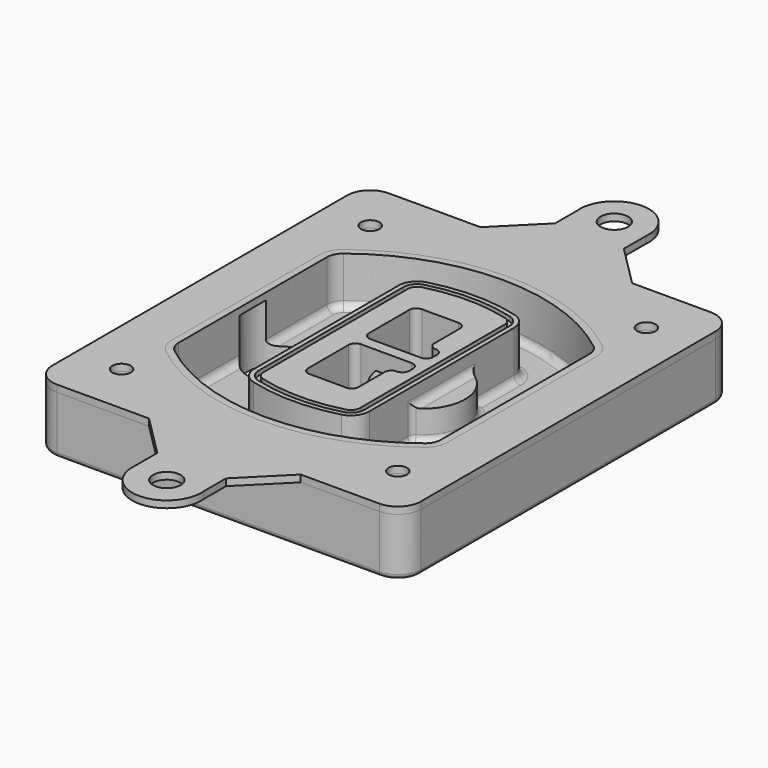
from build123d import *

# Parameters (mm, degrees)
F0_R      = 4
F1_DEPTH  = 25
F2_DEPTH  = 3
F3_DEPTH  = 18
F5_DEPTH  = 21
F6_DEPTH  = 2
F8_DEPTH  = 20
F9_DEPTH  = 16
F10_DEPTH = 25
F7_R      = 6
F7_R_2    = 4
F11_DEPTH = 6
F13_DEPTH = 9
F14_R     = 3
F15_R     = 2
F16_R     = 6
F16_R_2   = 4
F17_DEPTH = 3


with BuildPart() as f1:
    # F0 (on Top) → F1 (new body)
    with BuildSketch(Plane.XY):
        with BuildLine():
            ThreePointArc((-80, -80), (-77.0710678119, -87.0710678119), (-70, -90))
            Line((-70, -90), (70, -90))
            ThreePointArc((70, -90), (77.0710678119, -87.0710678119), (80, -80))
            Line((80, -80), (80, 80))
            ThreePointArc((80, 80), (77.0710678119, 87.0710678119), (70, 90))
            Line((70, 90), (-70, 90))
            ThreePointArc((-70, 90), (-77.0710678119, 87.0710678119), (-80, 80))
            Line((-80, 80), (-80, -80))
        make_face()
        with Locations((-60, -67.5)):
            Circle(F0_R, mode=Mode.SUBTRACT)
        with Locations((60, -67.5)):
            Circle(F0_R, mode=Mode.SUBTRACT)
        with Locations((-60, 67.5)):
            Circle(F0_R, mode=Mode.SUBTRACT)
        with BuildLine():
            ThreePointArc((-64, 40.2934422872), (-62.5820384798, 46.4328484224), (-58.6153846154, 51.3286200352))
            ThreePointArc((-58.6153846154, 51.3286200352), (0, 71.5), (58.6153846154, 51.3286200352))
            ThreePointArc((58.6153846154, 51.3286200352), (62.5820384798, 46.4328484224), (64, 40.2934422872))
            Line((64, 40.2934422872), (64, -40.2934422872))
            ThreePointArc((64, -40.2934422872), (62.5820384798, -46.4328484224), (58.6153846154, -51.3286200352))
            ThreePointArc((58.6153846154, -51.3286200352), (0, -71.5), (-58.6153846154, -51.3286200352))
            ThreePointArc((-58.6153846154, -51.3286200352), (-62.5820384798, -46.4328484224), (-64, -40.2934422872))
            Line((-64, -40.2934422872), (-64, 40.2934422872))
        make_face(mode=Mode.SUBTRACT)
        with Locations((60, 67.5)):
            Circle(F0_R, mode=Mode.SUBTRACT)
        with BuildLine():
            ThreePointArc((58.6153846154, 51.3286200352), (0, 71.5), (-58.6153846154, 51.3286200352))
            ThreePointArc((-58.6153846154, 51.3286200352), (-62.5820384798, 46.4328484224), (-64, 40.2934422872))
            Line((-64, 40.2934422872), (-64, -40.2934422872))
            ThreePointArc((-64, -40.2934422872), (-62.5820384798, -46.4328484224), (-58.6153846154, -51.3286200352))
            ThreePointArc((-58.6153846154, -51.3286200352), (0, -71.5), (58.6153846154, -51.3286200352))
            ThreePointArc((58.6153846154, -51.3286200352), (62.5820384798, -46.4328484224), (64, -40.2934422872))
            Line((64, -40.2934422872), (64, 40.2934422872))
            ThreePointArc((64, 40.2934422872), (62.5820384798, 46.4328484224), (58.6153846154, 51.3286200352))
        make_face()
        with BuildLine():
            Line((-60, -40.2934422872), (-60, 40.2934422872))
            ThreePointArc((-60, 40.2934422872), (-58.9871703427, 44.6787323838), (-56.1538461538, 48.1757121072))
            ThreePointArc((-56.1538461538, 48.1757121072), (0, 67.5), (56.1538461538, 48.1757121072))
            ThreePointArc((56.1538461538, 48.1757121072), (58.9871703427, 44.6787323838), (60, 40.2934422872))
            Line((60, 40.2934422872), (60, -40.2934422872))
            ThreePointArc((60, -40.2934422872), (58.9871703427, -44.6787323838), (56.1538461538, -48.1757121072))
            ThreePointArc((56.1538461538, -48.1757121072), (0, -67.5), (-56.1538461538, -48.1757121072))
            ThreePointArc((-56.1538461538, -48.1757121072), (-58.9871703427, -44.6787323838), (-60, -40.2934422872))
        make_face(mode=Mode.SUBTRACT)
        with BuildLine():
            ThreePointArc((-56.1538461538, 48.1757121072), (-58.9871703427, 44.6787323838), (-60, 40.2934422872))
            Line((-60, 40.2934422872), (-60, -40.2934422872))
            ThreePointArc((-60, -40.2934422872), (-58.9871703427, -44.6787323838), (-56.1538461538, -48.1757121072))
            ThreePointArc((-56.1538461538, -48.1757121072), (0, -67.5), (56.1538461538, -48.1757121072))
            ThreePointArc((56.1538461538, -48.1757121072), (58.9871703427, -44.6787323838), (60, -40.2934422872))
            Line((60, -40.2934422872), (60, 40.2934422872))
            ThreePointArc((60, 40.2934422872), (58.9871703427, 44.6787323838), (56.1538461538, 48.1757121072))
            ThreePointArc((56.1538461538, 48.1757121072), (0, 67.5), (-56.1538461538, 48.1757121072))
        make_face()
        with BuildLine():
            ThreePointArc((54.3076923077, 45.8110311612), (56.2910192399, 43.3631453548), (57, 40.2934422872))
            Line((57, 40.2934422872), (57, -40.2934422872))
            ThreePointArc((57, -40.2934422872), (56.2910192399, -43.3631453548), (54.3076923077, -45.8110311612))
            ThreePointArc((54.3076923077, -45.8110311612), (0, -64.5), (-54.3076923077, -45.8110311612))
            ThreePointArc((-54.3076923077, -45.8110311612), (-56.2910192399, -43.3631453548), (-57, -40.2934422872))
            Line((-57, -40.2934422872), (-57, 40.2934422872))
            ThreePointArc((-57, 40.2934422872), (-56.2910192399, 43.3631453548), (-54.3076923077, 45.8110311612))
            ThreePointArc((-54.3076923077, 45.8110311612), (0, 64.5), (54.3076923077, 45.8110311612))
        make_face(mode=Mode.SUBTRACT)
        with BuildLine():
            Line((57, -40.2934422872), (57, 40.2934422872))
            ThreePointArc((57, 40.2934422872), (56.2910192399, 43.3631453548), (54.3076923077, 45.8110311612))
            ThreePointArc((54.3076923077, 45.8110311612), (0, 64.5), (-54.3076923077, 45.8110311612))
            ThreePointArc((-54.3076923077, 45.8110311612), (-56.2910192399, 43.3631453548), (-57, 40.2934422872))
            Line((-57, 40.2934422872), (-57, -40.2934422872))
            ThreePointArc((-57, -40.2934422872), (-56.2910192399, -43.3631453548), (-54.3076923077, -45.8110311612))
            ThreePointArc((-54.3076923077, -45.8110311612), (0, -64.5), (54.3076923077, -45.8110311612))
            ThreePointArc((54.3076923077, -45.8110311612), (56.2910192399, -43.3631453548), (57, -40.2934422872))
        make_face()
    extrude(amount=-F1_DEPTH)

    # F0 (on Top) → F2 (join)
    with BuildSketch(Plane.XY):
        with BuildLine():
            ThreePointArc((-56.1538461538, 48.1757121072), (-58.9871703427, 44.6787323838), (-60, 40.2934422872))
            Line((-60, 40.2934422872), (-60, -40.2934422872))
            ThreePointArc((-60, -40.2934422872), (-58.9871703427, -44.6787323838), (-56.1538461538, -48.1757121072))
            ThreePointArc((-56.1538461538, -48.1757121072), (0, -67.5), (56.1538461538, -48.1757121072))
            ThreePointArc((56.1538461538, -48.1757121072), (58.9871703427, -44.6787323838), (60, -40.2934422872))
            Line((60, -40.2934422872), (60, 40.2934422872))
            ThreePointArc((60, 40.2934422872), (58.9871703427, 44.6787323838), (56.1538461538, 48.1757121072))
            ThreePointArc((56.1538461538, 48.1757121072), (0, 67.5), (-56.1538461538, 48.1757121072))
        make_face()
        with BuildLine():
            ThreePointArc((54.3076923077, 45.8110311612), (56.2910192399, 43.3631453548), (57, 40.2934422872))
            Line((57, 40.2934422872), (57, -40.2934422872))
            ThreePointArc((57, -40.2934422872), (56.2910192399, -43.3631453548), (54.3076923077, -45.8110311612))
            ThreePointArc((54.3076923077, -45.8110311612), (0, -64.5), (-54.3076923077, -45.8110311612))
            ThreePointArc((-54.3076923077, -45.8110311612), (-56.2910192399, -43.3631453548), (-57, -40.2934422872))
            Line((-57, -40.2934422872), (-57, 40.2934422872))
            ThreePointArc((-57, 40.2934422872), (-56.2910192399, 43.3631453548), (-54.3076923077, 45.8110311612))
            ThreePointArc((-54.3076923077, 45.8110311612), (0, 64.5), (54.3076923077, 45.8110311612))
        make_face(mode=Mode.SUBTRACT)
    extrude(amount=F2_DEPTH)

    # F0 (on Top) → F3 (cut)
    with BuildSketch(Plane.XY):
        with BuildLine():
            Line((57, -40.2934422872), (57, 40.2934422872))
            ThreePointArc((57, 40.2934422872), (56.2910192399, 43.3631453548), (54.3076923077, 45.8110311612))
            ThreePointArc((54.3076923077, 45.8110311612), (0, 64.5), (-54.3076923077, 45.8110311612))
            ThreePointArc((-54.3076923077, 45.8110311612), (-56.2910192399, 43.3631453548), (-57, 40.2934422872))
            Line((-57, 40.2934422872), (-57, -40.2934422872))
            ThreePointArc((-57, -40.2934422872), (-56.2910192399, -43.3631453548), (-54.3076923077, -45.8110311612))
            ThreePointArc((-54.3076923077, -45.8110311612), (0, -64.5), (54.3076923077, -45.8110311612))
            ThreePointArc((54.3076923077, -45.8110311612), (56.2910192399, -43.3631453548), (57, -40.2934422872))
        make_face()
    extrude(amount=-F3_DEPTH, mode=Mode.SUBTRACT)

    # F4 (on face) → F5 (join, through all)
    with BuildSketch(Plane.XY.offset(3)):
        with BuildLine():
            ThreePointArc((-25, -39.2465276821), (-23.3511545998, -44.1109737193), (-19.0842911877, -46.9702398883))
            ThreePointArc((-19.0842911877, -46.9702398883), (0, -49.5), (19.0842911877, -46.9702398883))
            ThreePointArc((19.0842911877, -46.9702398883), (23.3511545998, -44.1109737193), (25, -39.2465276821))
            Line((25, -39.2465276821), (25, 39.2465276821))
            ThreePointArc((25, 39.2465276821), (23.3511545998, 44.1109737193), (19.0842911877, 46.9702398883))
            ThreePointArc((19.0842911877, 46.9702398883), (0, 49.5), (-19.0842911877, 46.9702398883))
            ThreePointArc((-19.0842911877, 46.9702398883), (-23.3511545998, 44.1109737193), (-25, 39.2465276821))
            Line((-25, 39.2465276821), (-25, -39.2465276821))
        make_face()
        with BuildLine():
            ThreePointArc((18.5632183908, 45.0393118368), (21.7633659499, 42.89486221), (23, 39.2465276821))
            Line((23, 39.2465276821), (23, -39.2465276821))
            ThreePointArc((23, -39.2465276821), (21.7633659499, -42.89486221), (18.5632183908, -45.0393118368))
            ThreePointArc((18.5632183908, -45.0393118368), (0, -47.5), (-18.5632183908, -45.0393118368))
            ThreePointArc((-18.5632183908, -45.0393118368), (-21.7633659499, -42.89486221), (-23, -39.2465276821))
            Line((-23, -39.2465276821), (-23, 39.2465276821))
            ThreePointArc((-23, 39.2465276821), (-21.7633659499, 42.89486221), (-18.5632183908, 45.0393118368))
            ThreePointArc((-18.5632183908, 45.0393118368), (0, 47.5), (18.5632183908, 45.0393118368))
        make_face(mode=Mode.SUBTRACT)
        with BuildLine():
            Line((23, -39.2465276821), (23, 39.2465276821))
            ThreePointArc((23, 39.2465276821), (21.7633659499, 42.89486221), (18.5632183908, 45.0393118368))
            ThreePointArc((18.5632183908, 45.0393118368), (0, 47.5), (-18.5632183908, 45.0393118368))
            ThreePointArc((-18.5632183908, 45.0393118368), (-21.7633659499, 42.89486221), (-23, 39.2465276821))
            Line((-23, 39.2465276821), (-23, -39.2465276821))
            ThreePointArc((-23, -39.2465276821), (-21.7633659499, -42.89486221), (-18.5632183908, -45.0393118368))
            ThreePointArc((-18.5632183908, -45.0393118368), (0, -47.5), (18.5632183908, -45.0393118368))
            ThreePointArc((18.5632183908, -45.0393118368), (21.7633659499, -42.89486221), (23, -39.2465276821))
        make_face()
        with BuildLine():
            ThreePointArc((18.0421455939, 43.1083837852), (20.1755772999, 41.6787507007), (21, 39.2465276821))
            Line((21, 39.2465276821), (21, -39.2465276821))
            ThreePointArc((21, -39.2465276821), (20.1755772999, -41.6787507007), (18.0421455939, -43.1083837852))
            ThreePointArc((18.0421455939, -43.1083837852), (0, -45.5), (-18.0421455939, -43.1083837852))
            ThreePointArc((-18.0421455939, -43.1083837852), (-20.1755772999, -41.6787507007), (-21, -39.2465276821))
            Line((-21, -39.2465276821), (-21, 39.2465276821))
            ThreePointArc((-21, 39.2465276821), (-20.1755772999, 41.6787507007), (-18.0421455939, 43.1083837852))
            ThreePointArc((-18.0421455939, 43.1083837852), (0, 45.5), (18.0421455939, 43.1083837852))
        make_face(mode=Mode.SUBTRACT)
        with BuildLine():
            Line((21, -39.2465276821), (21, 39.2465276821))
            ThreePointArc((21, 39.2465276821), (20.1755772999, 41.6787507007), (18.0421455939, 43.1083837852))
            ThreePointArc((18.0421455939, 43.1083837852), (0, 45.5), (-18.0421455939, 43.1083837852))
            ThreePointArc((-18.0421455939, 43.1083837852), (-20.1755772999, 41.6787507007), (-21, 39.2465276821))
            Line((-21, 39.2465276821), (-21, -39.2465276821))
            ThreePointArc((-21, -39.2465276821), (-20.1755772999, -41.6787507007), (-18.0421455939, -43.1083837852))
            ThreePointArc((-18.0421455939, -43.1083837852), (0, -45.5), (18.0421455939, -43.1083837852))
            ThreePointArc((18.0421455939, -43.1083837852), (20.1755772999, -41.6787507007), (21, -39.2465276821))
        make_face()
        with BuildLine():
            Line((-8, -2.5), (14, -2.5))
            ThreePointArc((14, -2.5), (16.1213203436, -3.3786796564), (17, -5.5))
            Line((17, -5.5), (17, -7.5))
            ThreePointArc((17, -7.5), (16.1213203436, -9.6213203436), (14, -10.5))
            ThreePointArc((14, -10.5), (11.8786796564, -11.3786796564), (11, -13.5))
            Line((11, -13.5), (11, -27.5))
            ThreePointArc((11, -27.5), (10.1213203436, -29.6213203436), (8, -30.5))
            Line((8, -30.5), (-8, -30.5))
            ThreePointArc((-8, -30.5), (-10.1213203436, -29.6213203436), (-11, -27.5))
            Line((-11, -27.5), (-11, -5.5))
            ThreePointArc((-11, -5.5), (-10.1213203436, -3.3786796564), (-8, -2.5))
        make_face(mode=Mode.SUBTRACT)
        with BuildLine():
            ThreePointArc((-8, 2.5), (-10.1213203436, 3.3786796564), (-11, 5.5))
            Line((-11, 5.5), (-11, 27.5))
            ThreePointArc((-11, 27.5), (-10.1213203436, 29.6213203436), (-8, 30.5))
            Line((-8, 30.5), (8, 30.5))
            ThreePointArc((8, 30.5), (10.1213203436, 29.6213203436), (11, 27.5))
            Line((11, 27.5), (11, 13.5))
            ThreePointArc((11, 13.5), (11.8786796564, 11.3786796564), (14, 10.5))
            ThreePointArc((14, 10.5), (16.1213203436, 9.6213203436), (17, 7.5))
            Line((17, 7.5), (17, 5.5))
            ThreePointArc((17, 5.5), (16.1213203436, 3.3786796564), (14, 2.5))
            Line((14, 2.5), (-8, 2.5))
        make_face(mode=Mode.SUBTRACT)
    extrude(amount=-F5_DEPTH)

    # F4 (on face) → F6 (cut)
    with BuildSketch(Plane.XY.offset(3)):
        with BuildLine():
            Line((23, -39.2465276821), (23, 39.2465276821))
            ThreePointArc((23, 39.2465276821), (21.7633659499, 42.89486221), (18.5632183908, 45.0393118368))
            ThreePointArc((18.5632183908, 45.0393118368), (0, 47.5), (-18.5632183908, 45.0393118368))
            ThreePointArc((-18.5632183908, 45.0393118368), (-21.7633659499, 42.89486221), (-23, 39.2465276821))
            Line((-23, 39.2465276821), (-23, -39.2465276821))
            ThreePointArc((-23, -39.2465276821), (-21.7633659499, -42.89486221), (-18.5632183908, -45.0393118368))
            ThreePointArc((-18.5632183908, -45.0393118368), (0, -47.5), (18.5632183908, -45.0393118368))
            ThreePointArc((18.5632183908, -45.0393118368), (21.7633659499, -42.89486221), (23, -39.2465276821))
        make_face()
        with BuildLine():
            ThreePointArc((18.0421455939, 43.1083837852), (20.1755772999, 41.6787507007), (21, 39.2465276821))
            Line((21, 39.2465276821), (21, -39.2465276821))
            ThreePointArc((21, -39.2465276821), (20.1755772999, -41.6787507007), (18.0421455939, -43.1083837852))
            ThreePointArc((18.0421455939, -43.1083837852), (0, -45.5), (-18.0421455939, -43.1083837852))
            ThreePointArc((-18.0421455939, -43.1083837852), (-20.1755772999, -41.6787507007), (-21, -39.2465276821))
            Line((-21, -39.2465276821), (-21, 39.2465276821))
            ThreePointArc((-21, 39.2465276821), (-20.1755772999, 41.6787507007), (-18.0421455939, 43.1083837852))
            ThreePointArc((-18.0421455939, 43.1083837852), (0, 45.5), (18.0421455939, 43.1083837852))
        make_face(mode=Mode.SUBTRACT)
    extrude(amount=-F6_DEPTH, mode=Mode.SUBTRACT)

    # F7 (on face) → F8 (join)
    with BuildSketch(Plane(origin=(0, 0, -25), x_dir=(1, 0, 0), z_dir=(0, 0, -1))):
        with BuildLine():
            ThreePointArc((3.28842436, 0), (16.7567035675, 13.4682792075), (30.224982775, 0))
            Line((30.224982775, 0), (35.224982775, 0))
            ThreePointArc((35.224982775, 0), (16.7567035675, 18.4682792075), (-1.71157564, 0))
            Line((-1.71157564, 0), (3.28842436, 0))
        make_face()
        with BuildLine():
            Line((3.28842436, 0), (30.224982775, 0))
            ThreePointArc((30.224982775, 0), (16.7567035675, 13.4682792075), (3.28842436, 0))
        make_face()
        with BuildLine():
            ThreePointArc((3.28842436, 0), (16.7567035675, -13.4682792075), (30.224982775, 0))
            Line((30.224982775, 0), (3.28842436, 0))
        make_face()
        with BuildLine():
            Line((35.224982775, 0), (30.224982775, 0))
            ThreePointArc((30.224982775, 0), (16.7567035675, -13.4682792075), (3.28842436, 0))
            Line((3.28842436, 0), (-1.71157564, 0))
            ThreePointArc((-1.71157564, 0), (16.7567035675, -18.4682792075), (35.224982775, 0))
        make_face()
    extrude(amount=-F8_DEPTH)

    # F7 (on face) → F9 (cut)
    with BuildSketch(Plane(origin=(0, 0, -25), x_dir=(1, 0, 0), z_dir=(0, 0, -1))):
        with BuildLine():
            Line((3.28842436, 0), (30.224982775, 0))
            ThreePointArc((30.224982775, 0), (16.7567035675, 13.4682792075), (3.28842436, 0))
        make_face()
        with BuildLine():
            ThreePointArc((3.28842436, 0), (16.7567035675, -13.4682792075), (30.224982775, 0))
            Line((30.224982775, 0), (3.28842436, 0))
        make_face()
    extrude(amount=-F9_DEPTH, mode=Mode.SUBTRACT)

    # F7 (on face) → F10 (cut)
    with BuildSketch(Plane(origin=(0, 0, -25), x_dir=(1, 0, 0), z_dir=(0, 0, -1))):
        with BuildLine():
            Line((-59.0318229325, 0), (-32.0952645175, 0))
            ThreePointArc((-32.0952645175, 0), (-45.563543725, 13.4682792075), (-59.0318229325, 0))
        make_face()
        with BuildLine():
            ThreePointArc((-59.0318229325, 0), (-45.563543725, -13.4682792075), (-32.0952645175, 0))
            Line((-32.0952645175, 0), (-59.0318229325, 0))
        make_face()
    extrude(amount=-F10_DEPTH, mode=Mode.SUBTRACT)

    # F7 (on face) → F11 (cut)
    with BuildSketch(Plane(origin=(0, 0, -25), x_dir=(1, 0, 0), z_dir=(0, 0, -1))):
        with Locations((60, -67.5)):
            Circle(F7_R)
        with Locations((60, -67.5)):
            Circle(F7_R_2, mode=Mode.SUBTRACT)
        with Locations((60, -67.5)):
            Circle(F7_R)
        with Locations((60, -67.5)):
            Circle(F7_R_2, mode=Mode.SUBTRACT)
        with Locations((-60, -67.5)):
            Circle(F7_R)
        with Locations((-60, -67.5)):
            Circle(F7_R_2, mode=Mode.SUBTRACT)
        with Locations((-60, -67.5)):
            Circle(F7_R)
        with Locations((-60, -67.5)):
            Circle(F7_R_2, mode=Mode.SUBTRACT)
        with Locations((-60, 67.5)):
            Circle(F7_R)
        with Locations((-60, 67.5)):
            Circle(F7_R_2, mode=Mode.SUBTRACT)
        with Locations((-60, 67.5)):
            Circle(F7_R)
        with Locations((-60, 67.5)):
            Circle(F7_R_2, mode=Mode.SUBTRACT)
        with Locations((60, 67.5)):
            Circle(F7_R)
        with Locations((60, 67.5)):
            Circle(F7_R_2, mode=Mode.SUBTRACT)
        with Locations((60, 67.5)):
            Circle(F7_R)
        with Locations((60, 67.5)):
            Circle(F7_R_2, mode=Mode.SUBTRACT)
    extrude(amount=-F11_DEPTH, mode=Mode.SUBTRACT)

    # F12 (on face) → F13 (cut, through all)
    with BuildSketch(Plane(origin=(0, 0, -9), x_dir=(1, 0, 0), z_dir=(0, 0, -1))):
        with BuildLine():
            Line((11, 13.5), (11, 17.5481537753))
            ThreePointArc((11, 17.5481537753), (2.5696536419, 11.8239143813), (-1.5415842455, 2.5))
            Line((-1.5415842455, 2.5), (3.5224848595, 2.5))
            ThreePointArc((3.5224848595, 2.5), (6.1857188154, 8.3455872281), (11.2536447004, 12.2927168648))
            ThreePointArc((11.2536447004, 12.2927168648), (11.0640958889, 12.8831798879), (11, 13.5))
        make_face()
        with BuildLine():
            ThreePointArc((11.2536447004, -12.2927168648), (6.1857188154, -8.3455872281), (3.5224848595, -2.5))
            Line((3.5224848595, -2.5), (-1.5415842455, -2.5))
            ThreePointArc((-1.5415842455, -2.5), (2.5696536419, -11.8239143813), (11, -17.5481537753))
            Line((11, -17.5481537753), (11, -13.5))
            ThreePointArc((11, -13.5), (11.0640958889, -12.8831798879), (11.2536447004, -12.2927168648))
        make_face()
        with BuildLine():
            ThreePointArc((11.2536447004, 12.2927168648), (6.1857188154, 8.3455872281), (3.5224848595, 2.5))
            Line((3.5224848595, 2.5), (14, 2.5))
            ThreePointArc((14, 2.5), (16.1213203436, 3.3786796564), (17, 5.5))
            Line((17, 5.5), (17, 7.5))
            ThreePointArc((17, 7.5), (16.1213203436, 9.6213203436), (14, 10.5))
            ThreePointArc((14, 10.5), (12.3601599782, 10.9878446101), (11.2536447004, 12.2927168648))
        make_face()
        with BuildLine():
            Line((14, -2.5), (3.5224848595, -2.5))
            ThreePointArc((3.5224848595, -2.5), (6.1857188154, -8.3455872281), (11.2536447004, -12.2927168648))
            ThreePointArc((11.2536447004, -12.2927168648), (12.3601599782, -10.9878446101), (14, -10.5))
            ThreePointArc((14, -10.5), (16.1213203436, -9.6213203436), (17, -7.5))
            Line((17, -7.5), (17, -5.5))
            ThreePointArc((17, -5.5), (16.1213203436, -3.3786796564), (14, -2.5))
        make_face()
    extrude(amount=F13_DEPTH, mode=Mode.SUBTRACT)

    # F14
    f14_edges = [f1.edges().sort_by_distance(p)[0] for p in [
        (-57, -23.703476, -18),
        (-57, 23.703476, -18),
        (25, 0, -5),
        (25, 16.526506, -11.5),
        (25, -16.526506, -11.5),
        (25, -27.886517, -18),
        (35.224983, 0, -18),
    ]]
    fillet(f14_edges, radius=F14_R)

    # F15
    f15_edges = [f1.edges().sort_by_distance(p)[0] for p in [
        (0, -90, -25),
    ]]
    fillet(f15_edges, radius=F15_R)


with BuildPart() as f17:
    # F16 (on face) → F17 (new body, through all)
    with BuildSketch(Plane.XY):
        with BuildLine():
            Line((-12.0663611607, 108), (-30.0663611607, 90))
            Line((-30.0663611607, 90), (35.7818514609, 90))
            Line((35.7818514609, 90), (17.7818514609, 108))
            Line((17.7818514609, 108), (17.7818514609, 120))
            ThreePointArc((17.7818514609, 120), (2.8577451501, 136.5070006048), (-12.0663611607, 120))
            Line((-12.0663611607, 120), (-12.0663611607, 108))
        make_face()
        with Locations((2.8577451501, 121.5070006048)):
            Circle(F16_R, mode=Mode.SUBTRACT)
        with BuildLine():
            Line((35.7818514609, -90), (-30.0663611607, -90))
            Line((-30.0663611607, -90), (-12.0663611607, -108))
            Line((-12.0663611607, -108), (-12.0663611607, -120))
            ThreePointArc((-12.0663611607, -120), (2.8577451501, -136.5070006048), (17.7818514609, -120))
            Line((17.7818514609, -120), (17.7818514609, -108))
            Line((17.7818514609, -108), (35.7818514609, -90))
        make_face()
        with Locations((2.8577451501, -121.5070006048)):
            Circle(F16_R, mode=Mode.SUBTRACT)
        with BuildLine():
            Line((35.7818514609, 90), (-30.0663611607, 90))
            Line((-30.0663611607, 90), (-70, 90))
            ThreePointArc((-70, 90), (-77.0710678119, 87.0710678119), (-80, 80))
            Line((-80, 80), (-80, 0))
            Line((-80, 0), (-60, 0))
            Line((-60, 0), (-60, 40.2934422872))
            ThreePointArc((-60, 40.2934422872), (-58.9871703427, 44.6787323838), (-56.1538461538, 48.1757121072))
            ThreePointArc((-56.1538461538, 48.1757121072), (0, 67.5), (56.1538461538, 48.1757121072))
            ThreePointArc((56.1538461538, 48.1757121072), (58.9871703427, 44.6787323838), (60, 40.2934422872))
            Line((60, 40.2934422872), (60, 0))
            Line((60, 0), (80, 0))
            Line((80, 0), (80, 80))
            ThreePointArc((80, 80), (77.0710678119, 87.0710678119), (70, 90))
            Line((70, 90), (35.7818514609, 90))
        make_face()
        with Locations((-60, 67.5)):
            Circle(F16_R_2, mode=Mode.SUBTRACT)
        with Locations((60, 67.5)):
            Circle(F16_R_2, mode=Mode.SUBTRACT)
        with BuildLine():
            Line((-60, 0), (-80, 0))
            Line((-80, 0), (-80, -80))
            ThreePointArc((-80, -80), (-77.0710678119, -87.0710678119), (-70, -90))
            Line((-70, -90), (-30.0663611607, -90))
            Line((-30.0663611607, -90), (35.7818514609, -90))
            Line((35.7818514609, -90), (70, -90))
            ThreePointArc((70, -90), (77.0710678119, -87.0710678119), (80, -80))
            Line((80, -80), (80, 0))
            Line((80, 0), (60, 0))
            Line((60, 0), (60, -40.2934422872))
            ThreePointArc((60, -40.2934422872), (58.9871703427, -44.6787323838), (56.1538461538, -48.1757121072))
            ThreePointArc((56.1538461538, -48.1757121072), (0, -67.5), (-56.1538461538, -48.1757121072))
            ThreePointArc((-56.1538461538, -48.1757121072), (-58.9871703427, -44.6787323838), (-60, -40.2934422872))
            Line((-60, -40.2934422872), (-60, 0))
        make_face()
        with Locations((-60, -67.5)):
            Circle(F16_R_2, mode=Mode.SUBTRACT)
        with Locations((60, -67.5)):
            Circle(F16_R_2, mode=Mode.SUBTRACT)
    extrude(amount=F17_DEPTH)


solid = Compound([f1.part, f17.part])
